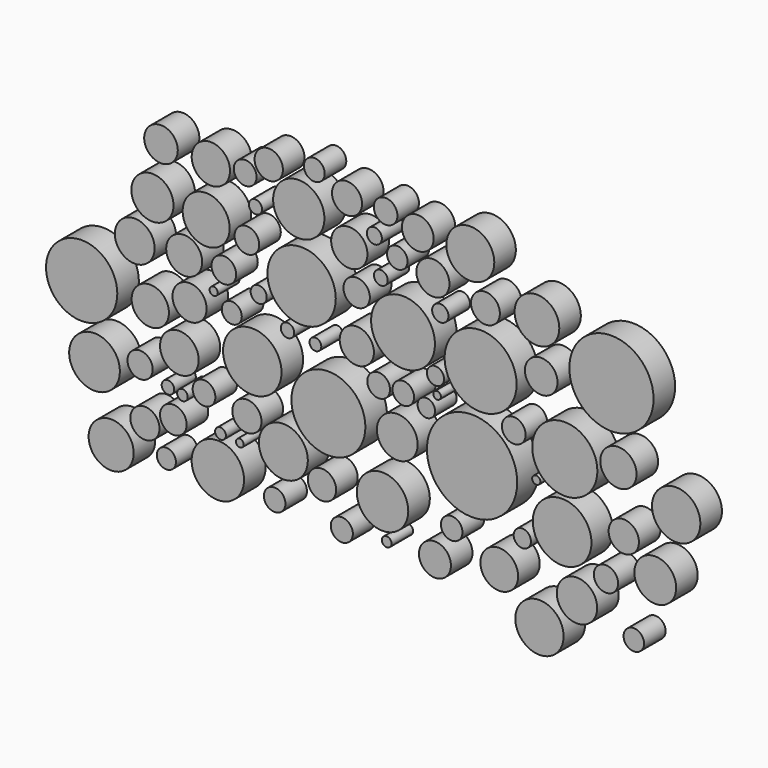
from build123d import *

# Parameters (mm, degrees)
F0_R     = 22.159182
F1_DEPTH = 25.4
F0_R_2   = 6.166581
F0_R_3   = 11.61927
F0_R_4   = 32.221186
F2_DEPTH = 25.4
F0_R_5   = 17.094405
F0_R_6   = 30.080774
F0_R_7   = 16.11851
F0_R_8   = 27.563894
F0_R_9   = 34.872455
F0_R_10  = 23.062158
F0_R_11  = 13.788893
F0_R_12  = 10.716605
F0_R_13  = 18.214729
F0_R_14  = 16.078883
F0_R_15  = 16.944451
F0_R_16  = 3.847379
F0_R_17  = 11.630244
F0_R_18  = 7.594609
F0_R_19  = 19.212008
F0_R_20  = 24.248916
F0_R_21  = 10.414676
F0_R_22  = 13.346851
F0_R_23  = 10.166668
F0_R_24  = 42.546713
F0_R_25  = 33.907705
F0_R_26  = 15.59544
F0_R_27  = 13.602542
F0_R_28  = 21.079012
F0_R_29  = 15.364611
F0_R_30  = 39.681992
F0_R_31  = 30.694727
F0_R_32  = 17.094397
F0_R_33  = 14.288812
F0_R_34  = 27.637859
F3_DEPTH = 25.4
F0_R_35  = 33.592229
F0_R_36  = 23.893733
F0_R_37  = 21.241828
F0_R_38  = 8.99457
F0_R_39  = 13.742545
F0_R_40  = 12.548565
F0_R_41  = 11.890673
F0_R_42  = 5.913051
F0_R_43  = 5.001074
F0_R_44  = 24.692157
F0_R_45  = 5.077048
F0_R_46  = 3.642953
F0_R_47  = 10.154103
F0_R_48  = 9.437645
F0_R_49  = 6.329957
F0_R_50  = 5.557038
F0_R_51  = 10.716612
F0_R_52  = 10.154107
F0_R_53  = 8.238699
F0_R_54  = 3.572204
F0_R_55  = 8.082971
F0_R_56  = 7.69476
F0_R_57  = 9.698781
F0_R_58  = 6.469529
F0_R_59  = 12.425924
F0_R_60  = 7.090617
F0_R_61  = 14.960667
F0_R_62  = 22.5926
F0_R_63  = 14.145195
F0_R_64  = 24.175119
F0_R_65  = 11.125554
F0_R_66  = 9.808921
F0_R_67  = 13.346847
F0_R_68  = 10.740383
F0_R_69  = 18.052882
F0_R_70  = 15.822879
F0_R_71  = 19.850639
F0_R_72  = 18.746409
F0_R_73  = 17.593766
F0_R_74  = 4.574648
F0_R_75  = 15.07114
F0_R_76  = 17.796597
F0_R_77  = 8.145875
F0_R_78  = 22.755801
F0_R_79  = 19.016723
F0_R_80  = 11.431063
F0_R_81  = 9.651555
F0_R_82  = 19.702226
F0_R_83  = 22.795024
F0_R_84  = 3.847384
F0_R_85  = 11.182767
F4_DEPTH = 25.4


with BuildPart() as f1:
    # F0 (on Front) → F1 (new body)
    with BuildSketch(Plane.XZ):
        with Locations((-180.098727, 88.657223)):
            Circle(F0_R)
    extrude(amount=F1_DEPTH)


with BuildPart() as f2:
    # F0 (on Front) → F2 (new body)
    with BuildSketch(Plane.XZ):
        with Locations((-133.621633, 114.421688)):
            Circle(F0_R_2)
        with Locations((-141.704604, 84.110551)):
            Circle(F0_R_3)
        with Locations((-90.175658, 62.89275)):
            Circle(F0_R_4)
    extrude(amount=F2_DEPTH)


with BuildPart() as f3:
    # F0 (on Front) → F3 (new body)
    with BuildSketch(Plane.XZ):
        with Locations((-45.214131, 109.369837)):
            Circle(F0_R_5)
        with Locations((5.421598, 55.532763)):
            Circle(F0_R_6)
        with Locations((-38.141526, 30.055676)):
            Circle(F0_R_7)
        with Locations((-136.652753, -14.905852)):
            Circle(F0_R_8)
        with Locations((-64.916372, -34.608096)):
            Circle(F0_R_9)
        with Locations((-107.351974, -80.074809)):
            Circle(F0_R_10)
        with Locations((-141.704604, -61.888125)):
            Circle(F0_R_11)
        with Locations((-182.119459, -55.825897)):
            Circle(F0_R_12)
        with Locations((-205.357999, -30.061424)):
            Circle(F0_R_13)
        with Locations((-195.759475, 14.900105)):
            Circle(F0_R_14)
        with Locations((-200.811341, 52.283846)):
            Circle(F0_R_15)
        with Locations((-173.02613, 31.571236)):
            Circle(F0_R_16)
        with Locations((-163.427591, 52.283846)):
            Circle(F0_R_17)
        with Locations((-130.590513, 42.685322)):
            Circle(F0_R_18)
        with Locations((0, -33.09254)):
            Circle(F0_R_19)
        with Locations((-13.892611, -91.1889)):
            Circle(F0_R_20)
        with Locations((-52.286733, -127.057076)):
            Circle(F0_R_21)
        with Locations((-70.978604, -95.735572)):
            Circle(F0_R_22)
        with Locations((51.276341, -92.199266)):
            Circle(F0_R_23)
        with Locations((70.47341, -34.102913)):
            Circle(F0_R_24)
        with Locations((78.556381, 47.231991)):
            Circle(F0_R_25)
        with Locations((33.594843, 109.875023)):
            Circle(F0_R_26)
        with Locations((83.103053, 100.781679)):
            Circle(F0_R_27)
        with Locations((131.600872, 106.843911)):
            Circle(F0_R_28)
        with Locations((135.64238, 61.377194)):
            Circle(F0_R_29)
        with Locations((201.8217, 77.037945)):
            Circle(F0_R_30)
        with Locations((157.870531, 0)):
            Circle(F0_R_31)
        with Locations((208.389103, 9.343063)):
            Circle(F0_R_32)
        with Locations((213.440955, -46.227366)):
            Circle(F0_R_33)
        with Locations((155.34462, -61.382938)):
            Circle(F0_R_34)
    extrude(amount=F3_DEPTH)


with BuildPart() as f4:
    # F0 (on Front) → F4 (new body)
    with BuildSketch(Plane.XZ):
        with Locations((-297.429651, 0)):
            Circle(F0_R_35)
        with Locations((-285.305202, -63.631423)):
            Circle(F0_R_36)
        with Locations((-269.644439, -127.284825)):
            Circle(F0_R_37)
        with Locations((-217.610329, -121.727787)):
            Circle(F0_R_38)
        with Locations((-237.817764, -98.994426)):
            Circle(F0_R_39)
        with Locations((-211.042911, -87.375157)):
            Circle(F0_R_40)
        with Locations((-242.364421, -52.012153)):
            Circle(F0_R_41)
        with Locations((-216.094762, -62.11587)):
            Circle(F0_R_42)
        with Locations((-202.454761, -64.136609)):
            Circle(F0_R_43)
        with Locations((-169.112504, -115.665555)):
            Circle(F0_R_44)
        with Locations((-166.586563, -84.344037)):
            Circle(F0_R_45)
        with Locations((-148.399875, -86.364783)):
            Circle(F0_R_46)
        with Locations((-115.562804, -122.73816)):
            Circle(F0_R_47)
        with Locations((-155.977666, 19.219037)):
            Circle(F0_R_48)
        with Locations((-103.438348, 21.744965)):
            Circle(F0_R_49)
        with Locations((-77.168688, 18.713851)):
            Circle(F0_R_50)
        with Locations((-17.556777, 4.063464)):
            Circle(F0_R_51)
        with Locations((5.681767, 5.073836)):
            Circle(F0_R_52)
        with Locations((27.404753, 0)):
            Circle(F0_R_53)
        with Locations((37.508469, 13.661993)):
            Circle(F0_R_54)
        with Locations((35.992917, 29.322751)):
            Circle(F0_R_55)
        with Locations((40.539585, 82.872435)):
            Circle(F0_R_56)
        with Locations((0, 115.709513)):
            Circle(F0_R_57)
        with Locations((-15.536032, 93.986526)):
            Circle(F0_R_58)
        with Locations((-38.269393, 74.284285)):
            Circle(F0_R_59)
        with Locations((-21.598259, 126.823604)):
            Circle(F0_R_60)
        with Locations((19.321786, 142.484352)):
            Circle(F0_R_61)
        with Locations((68.829991, 141.473979)):
            Circle(F0_R_62)
        with Locations((-47.362734, 149.556965)):
            Circle(F0_R_63)
        with Locations((-92.829451, 125.813231)):
            Circle(F0_R_64)
        with Locations((-10.989362, 150.567338)):
            Circle(F0_R_65)
        with Locations((-78.179061, 163.196981)):
            Circle(F0_R_66)
        with Locations((-121.119849, 153.598443)):
            Circle(F0_R_67)
        with Locations((-143.348023, 139.453247)):
            Circle(F0_R_68)
        with Locations((-175.679907, 136.422127)):
            Circle(F0_R_69)
        with Locations((-222.662181, 137.432501)):
            Circle(F0_R_70)
        with Locations((-230.745167, 90.45022)):
            Circle(F0_R_71)
        with Locations((-247.416288, 49.024995)):
            Circle(F0_R_72)
        with Locations((-232.765898, 0)):
            Circle(F0_R_73)
        with Locations((-9.978986, -123.243339)):
            Circle(F0_R_74)
        with Locations((35.487726, -123.243339)):
            Circle(F0_R_75)
        with Locations((96.110016, -111.62407)):
            Circle(F0_R_76)
        with Locations((117.833003, -78.786992)):
            Circle(F0_R_77)
        with Locations((133.99896, -147.49226)):
            Circle(F0_R_78)
        with Locations((169.361949, -113.644809)):
            Circle(F0_R_79)
        with Locations((196.641967, -86.86997)):
            Circle(F0_R_80)
        with Locations((222.911626, -128.800377)):
            Circle(F0_R_81)
        with Locations((243.119061, -72.724767)):
            Circle(F0_R_82)
        with Locations((262.821287, -12.102479)):
            Circle(F0_R_83)
        with Locations((130.967826, -26.24768)):
            Circle(F0_R_84)
        with Locations((109.750032, 8.104951)):
            Circle(F0_R_85)
    extrude(amount=F4_DEPTH)


solid = Compound([f1.part, f2.part, f3.part, f4.part])
